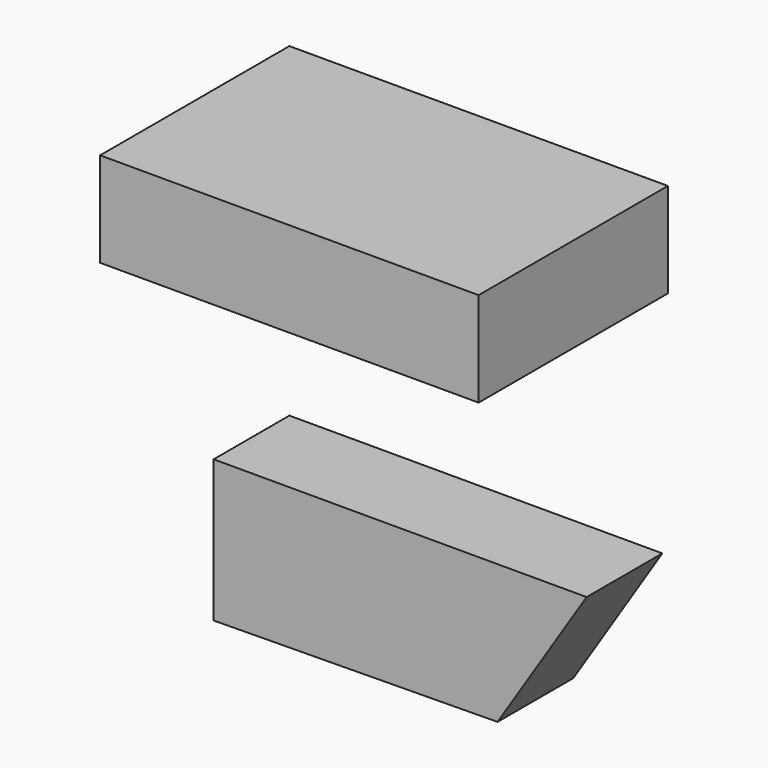
from build123d import *

# Parameters (mm, degrees)
F0_W     = 50.8
F0_H     = 31.75
F1_DEPTH = 12.7
F3_DEPTH = 12.7


with BuildPart() as f1:
    # F0 (on Top) → F1 (new body)
    with BuildSketch(Plane.XY):
        with Locations((25.4, -15.875)):
            Rectangle(F0_W, F0_H)
    extrude(amount=F1_DEPTH)


with BuildPart() as f3:
    # F2 (on Front) → F3 (new body)
    with BuildSketch(Plane.XZ):
        Polygon((0, -30.956252), (0, -50.006252), (38.097797, -49.59653), (50.054726, -30.956252), align=None)
    extrude(amount=F3_DEPTH)


solid = Compound([f1.part, f3.part])
